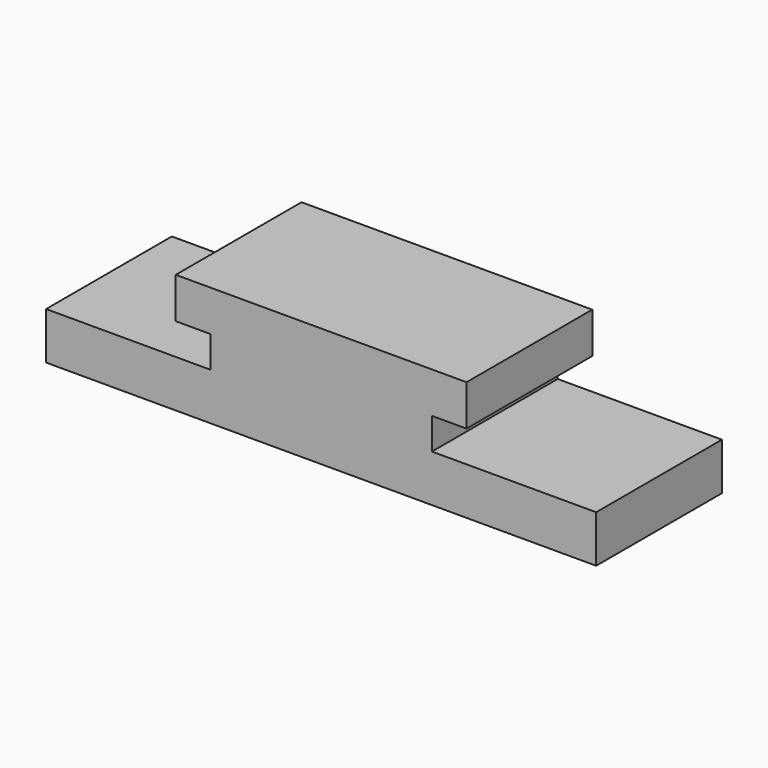
from build123d import *

# Parameters (mm, degrees)
PAD_DEPTH = 10


with BuildPart() as part:
    # Sketch → Pad (new body)
    with BuildSketch(Plane.XZ):
        Polygon((9.25, 7.6), (-9.25, 7.6), (-9.25, 5), (-7.05, 5), (-7.05, 3), (-17.5, 3), (-17.5, 0), (17.5, 0), (17.5, 3), (7.05, 3), (7.05, 5), (9.25, 5), align=None)
    extrude(amount=PAD_DEPTH)


solid = part.part
